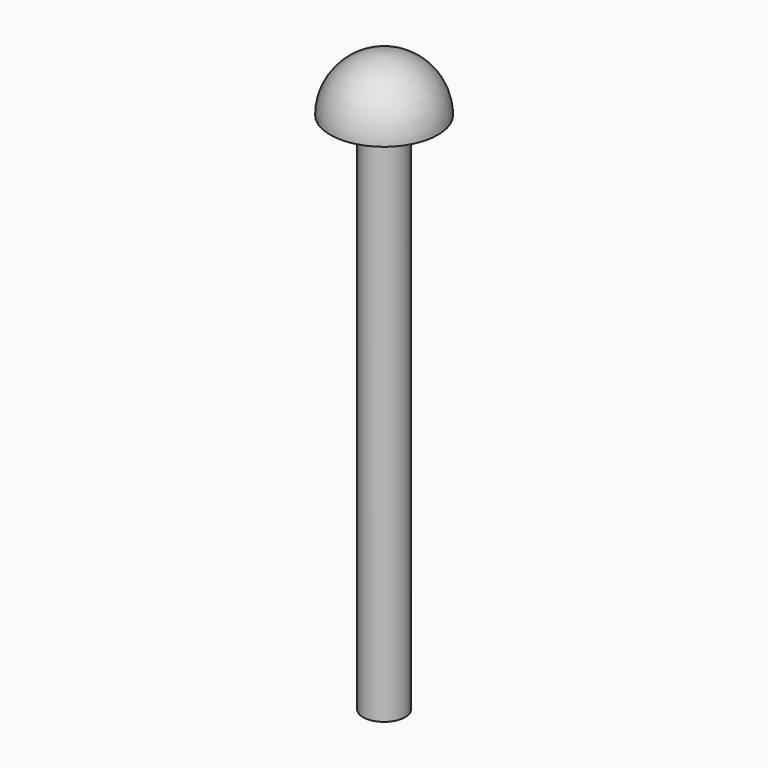
from build123d import *

# Parameters (mm, degrees)
CYLINDER009_R     = 133
CYLINDER009_DEPTH = 3304


with BuildPart() as obj1:
    # Cylinder009 → Cylinder009 (new body)
    with BuildSketch(Plane(origin=(500, 785, -2659), x_dir=(1, 0, 0), z_dir=(0, 0, 1))):
        Circle(CYLINDER009_R)
    extrude(amount=CYLINDER009_DEPTH)


with BuildPart() as obj2:
    # Sphere001 → Sphere001 (revolve)
    with BuildSketch(Plane(origin=(500, 785, 645), x_dir=(1, 0, 0), z_dir=(0, -1, 0))):
        with BuildLine():
            ThreePointArc((340, 0), (240.416306, 240.416306), (0, 340))
            Line((0, 340), (0, 0))
            Line((0, 0), (340, 0))
        make_face()
    revolve(axis=Axis((500, 785, 645), (0, 0, 1)))

    # Fusion003004: union obj1
    add(obj1.part)


with BuildPart() as obj2_1:
    # Fusion003004 placement: moved
    add(obj2.part.moved(Location((0, -168, -46))))


solid = obj2_1.part
